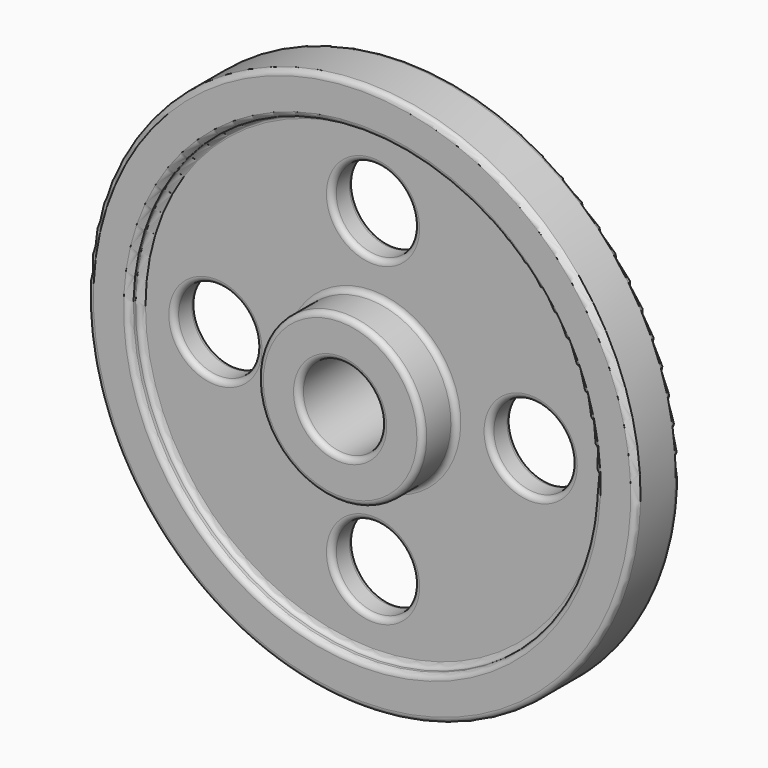
from build123d import *

# Parameters (mm, degrees)
F2_R     = 19.05
F3_DEPTH = 25.4
F4_R     = 2.54


with BuildPart() as f1:
    # F0 (on Right) → F1 (revolve)
    with BuildSketch(Plane.YZ):
        Polygon((-6.35, 19.05), (6.35, 19.05), (25.4, 19.05), (25.4, 38.1), (6.35, 38.1), (6.35, 107.95), (12.7, 107.95), (12.7, 127), (6.35, 127), (0, 127), (-6.35, 127), (-12.7, 127), (-12.7, 107.95), (-6.35, 107.95), (-6.35, 38.1), (-25.4, 38.1), (-25.4, 19.05), align=None)
    revolve(axis=Axis((0, 0, 0), (0, 1, 0)))

    # F2 (on face) → F3 (cut)
    with BuildSketch(Plane.XZ.offset(6.35)):
        with BuildLine():
            ThreePointArc((19.05, 73.025), (-13.4703841816, 86.4953841816), (0, 53.975))
            ThreePointArc((0, 53.975), (13.4703841816, 59.5546158184), (19.05, 73.025))
        make_face()
        with Locations((73.025, 0)):
            Circle(F2_R)
        with Locations((0, -73.025)):
            Circle(F2_R)
        with Locations((-73.025, 0)):
            Circle(F2_R)
    extrude(amount=-F3_DEPTH, mode=Mode.SUBTRACT)

    # F4
    f4_edges = [f1.edges().sort_by_distance(p)[0] for p in [
        (0, -25.4, -19.05),
        (0, 0, 19.05),
        (0, 25.4, -19.05),
        (0, 12.7, -107.95),
        (0, 12.7, -127),
        (0, -6.35, -107.95),
        (0, 0, 127),
        (0, -12.7, -127),
        (0, -12.7, -107.95),
        (0, -9.525, 107.95),
        (0, -6.35, -38.1),
        (0, -25.4, -38.1),
        (0, -15.875, 38.1),
        (0, -6.35, 92.075),
        (0, 0, 53.975),
        (0, 6.35, 92.075),
        (-92.075, -6.35, 0),
        (-53.975, 0, 0),
        (-92.075, 6.35, 0),
        (-19.05, -6.35, -73.025),
        (19.05, 0, -73.025),
        (-19.05, 6.35, -73.025),
        (53.975, -6.35, 0),
        (92.075, 0, 0),
        (53.975, 6.35, 0),
        (0, 6.35, -38.1),
        (0, 25.4, -38.1),
        (0, 15.875, 38.1),
        (0, 6.35, -107.95),
        (0, 9.525, 107.95),
    ]]
    fillet(f4_edges, radius=F4_R)


solid = f1.part
